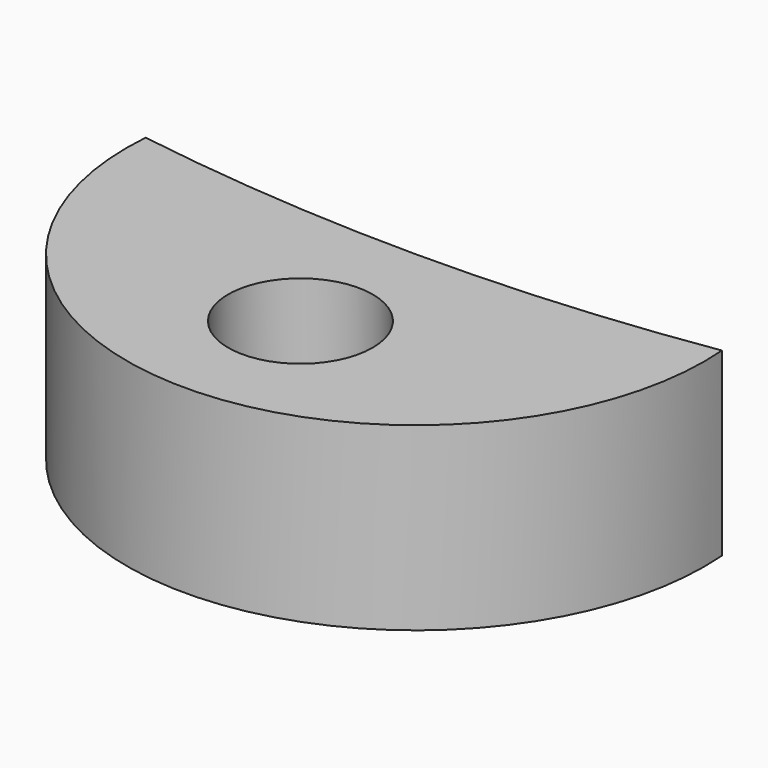
from build123d import *

# Parameters (mm, degrees)
CYLINDER005_R     = 2
CYLINDER005_DEPTH = 6
CYLINDER004_R     = 52
CYLINDER004_DEPTH = 67
CYLINDER003_R     = 8
CYLINDER003_DEPTH = 5


with BuildPart() as screw_cut:
    # Cylinder005 → Cylinder005 (new body)
    with BuildSketch(Plane(origin=(0, 56, -0.5), x_dir=(1, 0, 0), z_dir=(0, 0, 1))):
        Circle(CYLINDER005_R)
    extrude(amount=CYLINDER005_DEPTH)


with BuildPart() as cylinder:
    # Cylinder004 → Cylinder004 (new body)
    with BuildSketch(Plane.XY):
        Circle(CYLINDER004_R)
    extrude(amount=CYLINDER004_DEPTH)


with BuildPart() as hinge_final:
    # Cylinder003 → Cylinder003 (new body)
    with BuildSketch(Plane(origin=(0, 52, 0), x_dir=(1, 0, 0), z_dir=(0, 0, 1))):
        Circle(CYLINDER003_R)
    extrude(amount=CYLINDER003_DEPTH)

    # Cut002: cut Cylinder
    add(cylinder.part, mode=Mode.SUBTRACT)

    # Cut003: cut Screw Cut
    add(screw_cut.part, mode=Mode.SUBTRACT)


with BuildPart() as part_mirroring:
    # Part__Mirroring: instance of Hinge Final
    add(hinge_final.part.mirror(Plane(origin=(0.001259, 0, 2.5), x_dir=(1, 0, 0), z_dir=(0, 1, 0))))


solid = part_mirroring.part
